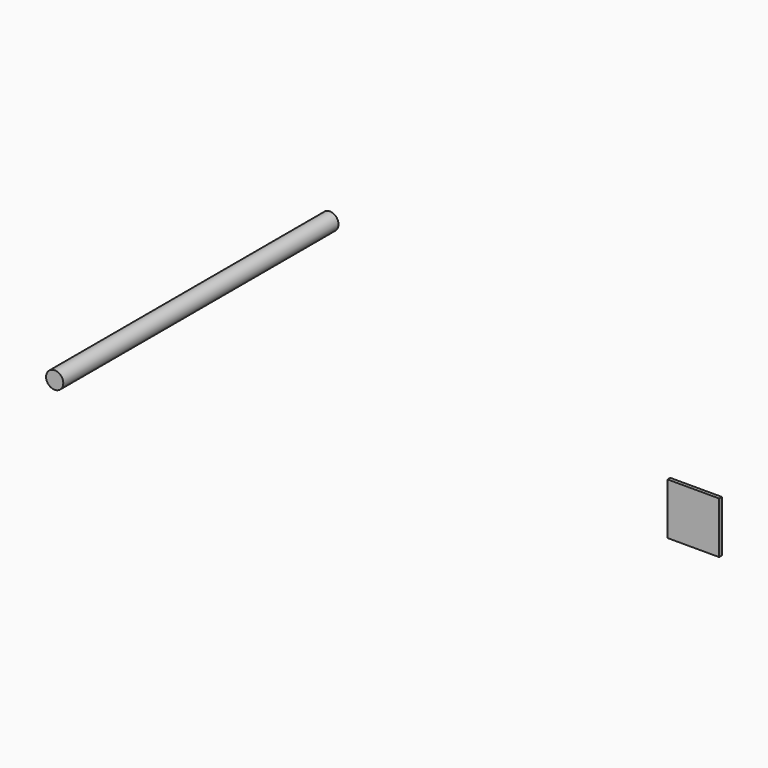
from build123d import *

# Parameters (mm, degrees)
F0_W     = 15
F0_H     = 15
F1_DEPTH = 1
F2_R     = 2.5019
F3_DEPTH = 100


with BuildPart() as f1:
    # F0 (on Front) → F1 (new body)
    with BuildSketch(Plane.XZ):
        Rectangle(F0_W, F0_H)
    extrude(amount=F1_DEPTH)


with BuildPart() as f3:
    # F2 (on Front) → F3 (new body)
    with BuildSketch(Plane.XZ):
        with Locations((-106.430486, 41.00569)):
            Circle(F2_R)
    extrude(amount=F3_DEPTH)


solid = Compound([f1.part, f3.part])
